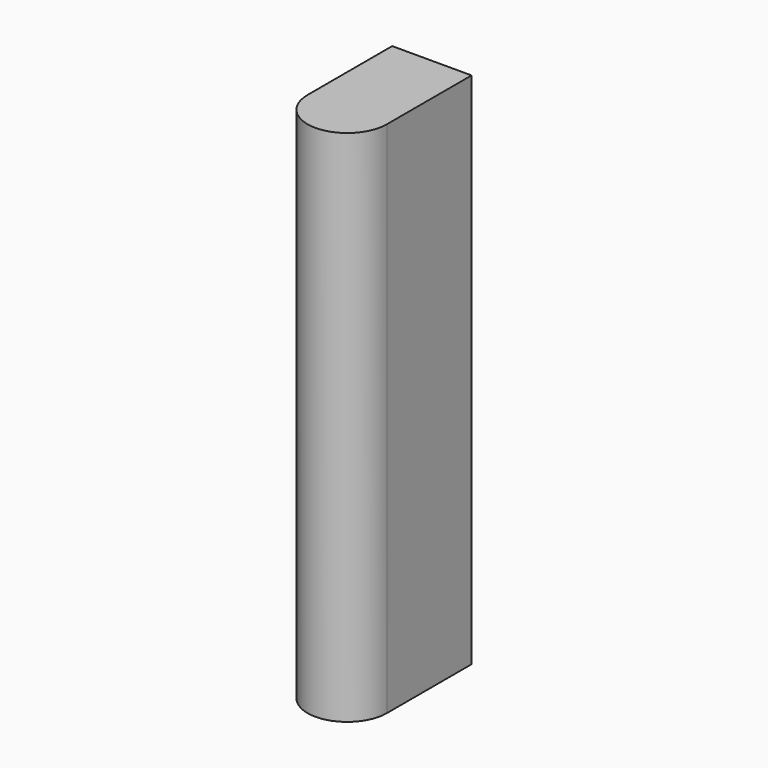
from build123d import *

# Parameters (mm, degrees)
F1_DEPTH = 248.92
F2_W     = 33.02
F2_H     = 243.84
F3_DEPTH = 48.26


with BuildPart() as f1:
    # F0 (on Top) → F1 (new body)
    with BuildSketch(Plane.XY):
        with BuildLine():
            ThreePointArc((-19.05, 0), (0, 19.05), (19.05, 0))
            Line((19.05, 0), (19.05, 50.8))
            Line((19.05, 50.8), (-19.05, 50.8))
            Line((-19.05, 50.8), (-19.05, 0))
        make_face()
        with BuildLine():
            Line((-19.05, 0), (19.05, 0))
            ThreePointArc((19.05, 0), (0, 19.05), (-19.05, 0))
        make_face()
        with BuildLine():
            ThreePointArc((-19.05, 0), (0, -19.05), (19.05, 0))
            Line((19.05, 0), (-19.05, 0))
        make_face()
    extrude(amount=F1_DEPTH)

    # F2 (on face) → F3 (cut)
    with BuildSketch(Plane(origin=(0, 50.8, 0), x_dir=(-1, 0, 0), z_dir=(0, 1, 0))):
        with Locations((0, 124.46)):
            Rectangle(F2_W, F2_H)
    extrude(amount=-F3_DEPTH, mode=Mode.SUBTRACT)


solid = f1.part
